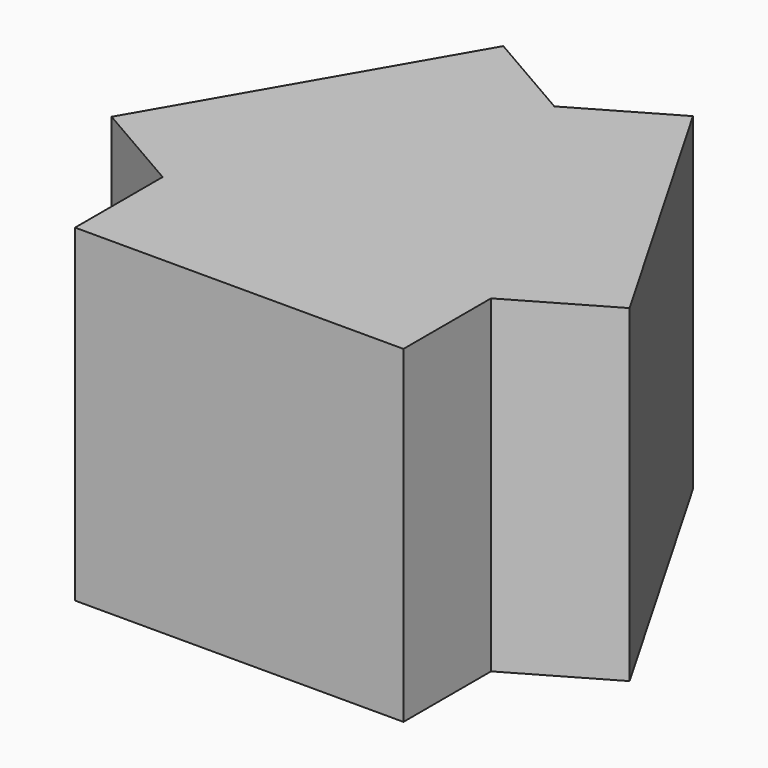
from build123d import *

# Parameters (mm, degrees)
F1_DEPTH = 24
F2_DEPTH = 16
F3_DEPTH = 16
F4_DEPTH = 16


with BuildPart() as f1:
    # F0 (on Top) → F1 (new body, symmetric)
    with BuildSketch(Plane.XY):
        Polygon((24, -13.8564064606), (0, 27.7128129211), (-24, -13.8564064606), align=None)
    extrude(amount=F1_DEPTH, both=True)

    # F2 (add): a face of the model
    f2_faces = [f1.faces().sort_by_distance(p)[0] for p in [
        (0, -13.8564064606, 0),
    ]]
    extrude(f2_faces, amount=F2_DEPTH)

    # F3 (add): a face of the model
    f3_faces = [f1.faces().sort_by_distance(p)[0] for p in [
        (12, 6.9282032303, 0),
    ]]
    extrude(f3_faces, amount=F3_DEPTH)

    # F4 (add): a face of the model
    f4_faces = [f1.faces().sort_by_distance(p)[0] for p in [
        (-12, 6.9282032303, 0),
    ]]
    extrude(f4_faces, amount=F4_DEPTH)


solid = f1.part
